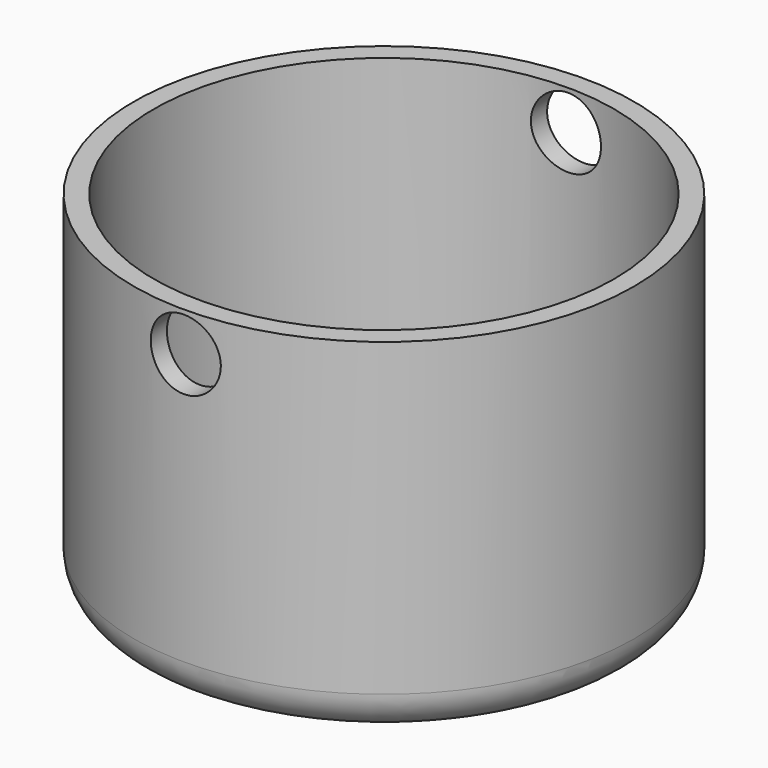
from build123d import *

# Parameters (mm, degrees)
F0_R     = 31.75
F1_DEPTH = 22.225
F2_T     = -2.54
F4_D     = 8.89
F4_DEPTH = 31.751
F5_D     = 8.89
F6_R     = 5.08


with BuildPart() as f1:
    # F0 (on Top) → F1 (new body, symmetric)
    with BuildSketch(Plane.XY):
        Circle(F0_R)
    extrude(amount=F1_DEPTH, both=True)

    # F2
    f2_openings = [f1.faces().sort_by_distance(p)[0] for p in [
        (0, 0, 22.225),
    ]]
    offset(amount=F2_T, openings=f2_openings)

    # F4 (through all, one way)
    with BuildSketch(Plane(origin=(0, 0, 0), x_dir=(1, 0, 0), z_dir=(0, 1, 0))):
        with Locations((0, -17.2211941394)):
            Circle(F4_D / 2)
    extrude(amount=-F4_DEPTH, mode=Mode.SUBTRACT)

    # F5 (through all)
    with Locations(Plane.XZ):
        with Locations((0, 17.2211941394)):
            Hole(F5_D / 2)

    # F6
    f6_edges = [f1.edges().sort_by_distance(p)[0] for p in [
        (-31.75, 0, -22.225),
    ]]
    fillet(f6_edges, radius=F6_R)


solid = f1.part
